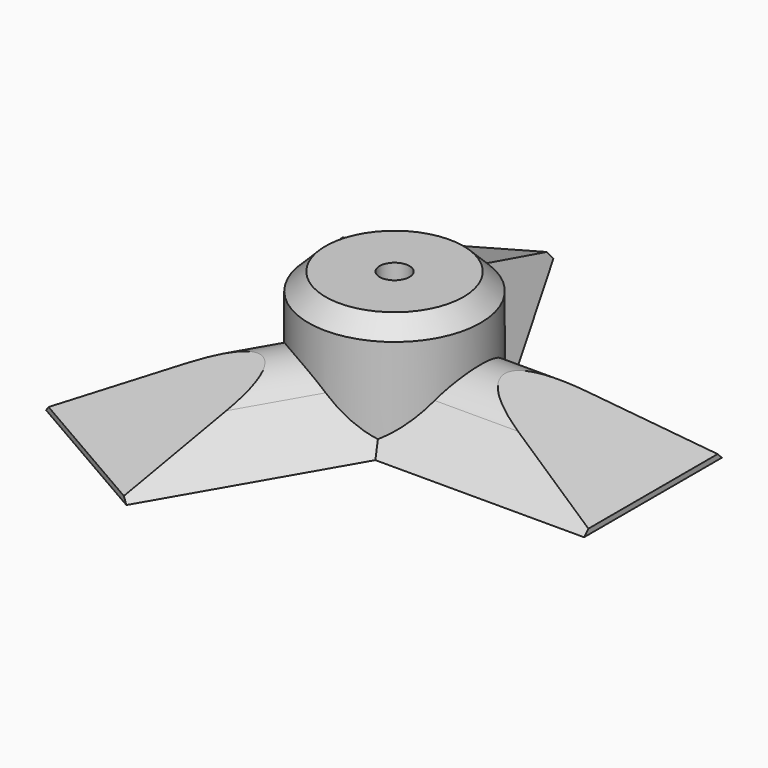
from build123d import *

# Parameters (mm, degrees)
SKETCH_R              = 15
PAD_DEPTH             = 20
PAD001_DEPTH          = 45
POLARPATTERN_COUNT    = 3
CHAMFER_SIZE          = 3
CYLINDER_R            = 2.6
CYLINDER_DEPTH        = 30
POCKET_DEPTH          = 15
POLARPATTERN001_COUNT = 3


with BuildPart() as part:
    # Sketch → Pad (new body)
    with BuildSketch(Plane.XY):
        Circle(SKETCH_R)
    extrude(amount=PAD_DEPTH)

    # Sketch001 → Pad001 (join)
    with BuildSketch(Plane.YZ):
        with BuildLine():
            Line((-15, 0), (-7.5, 7.5))
            ThreePointArc((7.5, 7.5), (0, 10.606602), (-7.5, 7.5))
            Line((7.5, 7.5), (15, 0))
            Line((15, 0), (-15, 0))
        make_face()
    pad001 = extrude(amount=PAD001_DEPTH)

    # PolarPattern: Pad001 ×3 about axis
    polarpattern_axis = Axis((0, 0, 0), (0, 0, 1))
    for i in range(1, POLARPATTERN_COUNT):
        add(pad001.rotate(polarpattern_axis, i * 360 / POLARPATTERN_COUNT))

    # Chamfer
    chamfer_edges = [part.edges().sort_by_distance(p)[0] for p in [
        (-15, 0, 20),
    ]]
    chamfer(chamfer_edges, length=CHAMFER_SIZE)

    # Cylinder → Cylinder (cut)
    with BuildSketch(Plane.XY):
        Circle(CYLINDER_R)
    extrude(amount=CYLINDER_DEPTH, mode=Mode.SUBTRACT)

    # Sketch002 → Pocket (cut, symmetric)
    with BuildSketch(Plane.XZ):
        Polygon((15.5, 12), (47.5, 0), (47.5, 12), align=None)
    pocket = extrude(amount=POCKET_DEPTH, both=True, mode=Mode.SUBTRACT)

    # PolarPattern001: Pocket ×3 about axis
    polarpattern001_axis = Axis((0, 0, 0), (0, 0, 1))
    for i in range(1, POLARPATTERN001_COUNT):
        add(pocket.rotate(polarpattern001_axis, i * 360 / POLARPATTERN001_COUNT), mode=Mode.SUBTRACT)


solid = part.part
